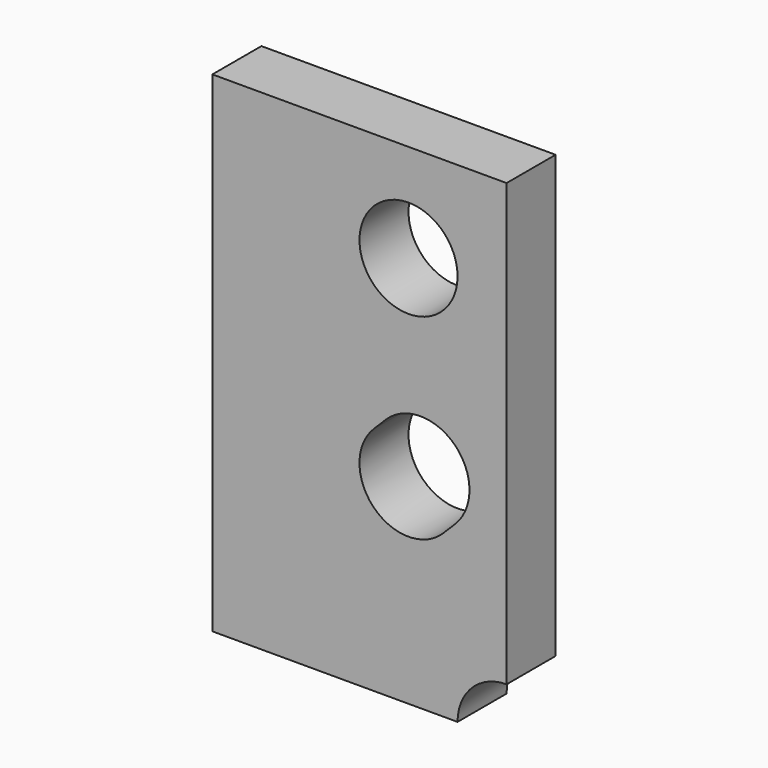
from build123d import *

# Parameters (mm, degrees)
F0_R     = 2
F1_DEPTH = 2.5


with BuildPart() as f1:
    # F0 (on Front) → F1 (new body)
    with BuildSketch(Plane.XZ):
        with BuildLine():
            Line((0, 20), (0, 0))
            Line((0, 0), (10, 0))
            ThreePointArc((10, 0), (10.585786, 1.414214), (12, 2))
            Line((12, 2), (12, 20))
            Line((12, 20), (0, 20))
        make_face()
        with BuildLine():
            ThreePointArc((9.414214, 6.585786), (6.585786, 6.585786), (6.585786, 9.414214))
            Line((6.585786, 9.414214), (7.071068, 9.899495))
            ThreePointArc((7.071068, 9.899495), (9.899495, 9.899495), (9.899495, 7.071068))
            Line((9.899495, 7.071068), (9.414214, 6.585786))
        make_face(mode=Mode.SUBTRACT)
        with Locations((8, 16)):
            Circle(F0_R, mode=Mode.SUBTRACT)
    extrude(amount=F1_DEPTH)


solid = f1.part
